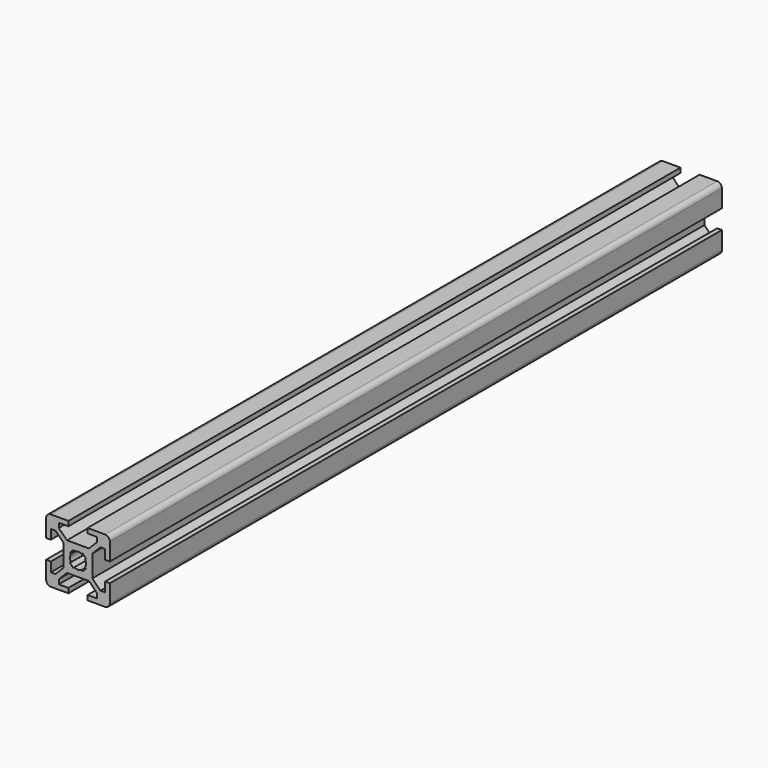
from build123d import *

# Parameters (mm, degrees)
F1_DEPTH = 240


with BuildPart() as f1:
    # F0 (on Front) → F1 (new body)
    with BuildSketch(Plane.XZ):
        with BuildLine():
            Line((3, -10), (8.5, -10))
            ThreePointArc((8.5, -10), (9.5606601718, -9.5606601718), (10, -8.5))
            Line((10, -8.5), (10, -3))
            Line((10, -3), (8.5, -3))
            Line((8.5, -3), (8.5, -6))
            Line((8.5, -6), (7.0606601718, -6))
            Line((7.0606601718, -6), (4.5, -3.4393398282))
            Line((4.5, -3.4393398282), (4.5, 3.4393398282))
            Line((4.5, 3.4393398282), (7.0606601718, 6))
            Line((7.0606601718, 6), (8.5, 6))
            Line((8.5, 6), (8.5, 3))
            Line((8.5, 3), (10, 3))
            Line((10, 3), (10, 8.5))
            ThreePointArc((10, 8.5), (9.5606601718, 9.5606601718), (8.5, 10))
            Line((8.5, 10), (3, 10))
            Line((3, 10), (3, 8.5))
            Line((3, 8.5), (6, 8.5))
            Line((6, 8.5), (6, 7.0606601718))
            Line((6, 7.0606601718), (3.4393398282, 4.5))
            Line((3.4393398282, 4.5), (-3.4393398282, 4.5))
            Line((-3.4393398282, 4.5), (-6, 7.0606601718))
            Line((-6, 7.0606601718), (-6, 8.5))
            Line((-6, 8.5), (-3, 8.5))
            Line((-3, 8.5), (-3, 10))
            Line((-3, 10), (-8.5, 10))
            ThreePointArc((-8.5, 10), (-9.5606601718, 9.5606601718), (-10, 8.5))
            Line((-10, 8.5), (-10, 3))
            Line((-10, 3), (-8.5, 3))
            Line((-8.5, 3), (-8.5, 6))
            Line((-8.5, 6), (-7.0606601718, 6))
            Line((-7.0606601718, 6), (-4.5, 3.4393398282))
            Line((-4.5, 3.4393398282), (-4.5, -3.4393398282))
            Line((-4.5, -3.4393398282), (-7.0606601718, -6))
            Line((-7.0606601718, -6), (-8.5, -6))
            Line((-8.5, -6), (-8.5, -3))
            Line((-8.5, -3), (-10, -3))
            Line((-10, -3), (-10, -8.5))
            ThreePointArc((-10, -8.5), (-9.5606601718, -9.5606601718), (-8.5, -10))
            Line((-8.5, -10), (-3, -10))
            Line((-3, -10), (-3, -8.5))
            Line((-3, -8.5), (-6, -8.5))
            Line((-6, -8.5), (-6, -7.0606601718))
            Line((-6, -7.0606601718), (-3.4393398282, -4.5))
            Line((-3.4393398282, -4.5), (3.4393398282, -4.5))
            Line((3.4393398282, -4.5), (6, -7.0606601718))
            Line((6, -7.0606601718), (6, -8.5))
            Line((6, -8.5), (3, -8.5))
            Line((3, -8.5), (3, -10))
        make_face()
        with BuildLine():
            ThreePointArc((-1.1560121095, 2.2166722813), (0, 2.5), (1.1560121095, 2.2166722813))
            Line((1.1560121095, 2.2166722813), (1.4393398282, 2.5))
            Line((1.4393398282, 2.5), (2.5, 1.4393398282))
            Line((2.5, 1.4393398282), (2.2166722813, 1.1560121095))
            ThreePointArc((2.2166722813, 1.1560121095), (2.5, 0), (2.2166722813, -1.1560121095))
            Line((2.2166722813, -1.1560121095), (2.5, -1.4393398282))
            Line((2.5, -1.4393398282), (1.4393398282, -2.5))
            Line((1.4393398282, -2.5), (1.1560121095, -2.2166722813))
            ThreePointArc((1.1560121095, -2.2166722813), (0, -2.5), (-1.1560121095, -2.2166722813))
            Line((-1.1560121095, -2.2166722813), (-1.4393398282, -2.5))
            Line((-1.4393398282, -2.5), (-2.5, -1.4393398282))
            Line((-2.5, -1.4393398282), (-2.2166722813, -1.1560121095))
            ThreePointArc((-2.2166722813, -1.1560121095), (-2.5, 0), (-2.2166722813, 1.1560121095))
            Line((-2.2166722813, 1.1560121095), (-2.5, 1.4393398282))
            Line((-2.5, 1.4393398282), (-1.4393398282, 2.5))
            Line((-1.4393398282, 2.5), (-1.1560121095, 2.2166722813))
        make_face(mode=Mode.SUBTRACT)
    extrude(amount=F1_DEPTH)


solid = f1.part
